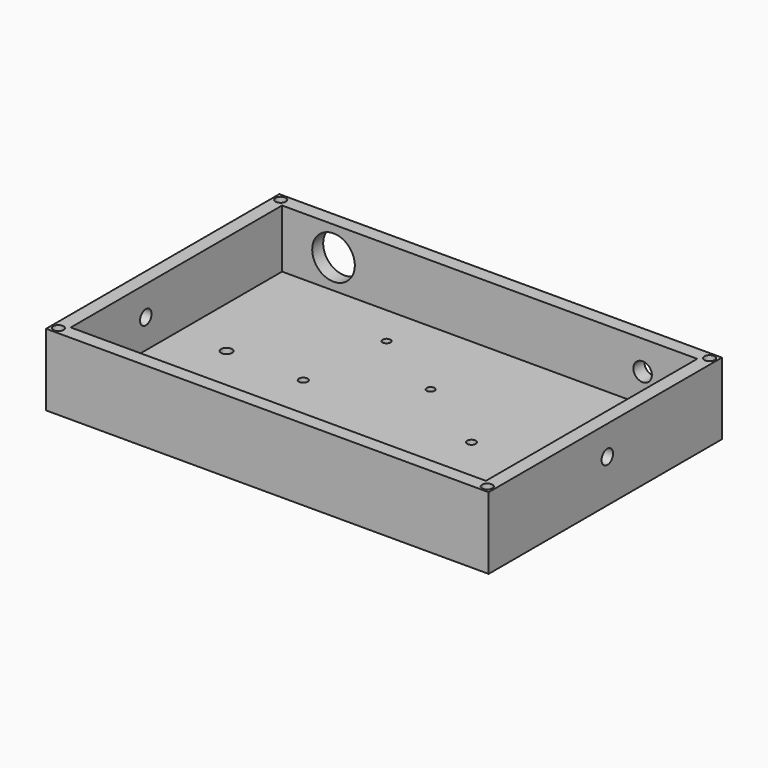
from build123d import *

# Parameters (mm, degrees)
F3_DEPTH  = 5.08
F6_DEPTH  = 5.08
F7_DEPTH  = 21.59
F8_R      = 7.8994
F9_DEPTH  = 25.4
F10_R     = 3.429
F11_DEPTH = 25.4
F12_R     = 2.667
F13_DEPTH = 25.4
F14_R     = 2.667
F15_DEPTH = 25.4
F1_R      = 1.4605
F16_DEPTH = 3.6068
F0_R      = 1.6129
F17_DEPTH = 3.6068
F18_R     = 1.905
F19_DEPTH = 12.7
F20_R     = 2
F21_DEPTH = 25.4


with BuildPart() as f3:
    # F2 (on Top) → F3 (new body)
    with BuildSketch(Plane.XY):
        Polygon((-43.589437, -12.7), (0, -12.7), (110.36633, -12.7), (110.36633, 85.2678), (0, 85.2678), (-43.589437, 85.2678), (-43.589437, 72.5678), (-43.589437, 0), align=None)
    extrude(amount=-F3_DEPTH)

    # F4 (on Top) → F6 (join)
    with BuildSketch(Plane.XY):
        Polygon((110.394933, 90.221972), (-5.796864, 90.221972), (-43.560833, 90.221972), (-48.640833, 90.221972), (-48.640833, 85.141972), (-48.640833, -12.825828), (-48.640833, -17.905828), (-43.560833, -17.905828), (-5.796864, -17.905828), (110.394933, -17.905828), (115.474933, -17.905828), (115.474933, -12.825828), (115.474933, 85.141972), (115.474933, 90.221972), align=None)
        Polygon((110.394933, -12.825828), (-5.796864, -12.825828), (-43.560833, -12.825828), (-43.560833, 85.141972), (-5.796864, 85.141972), (110.394933, 85.141972), align=None, mode=Mode.SUBTRACT)
    extrude(amount=-F6_DEPTH)

    # F5 (on face) → F7 (join)
    with BuildSketch(Plane.XY):
        Polygon((110.394933, 90.221972), (-5.796864, 90.221972), (-43.560833, 90.221972), (-48.640833, 90.221972), (-48.640833, 85.141972), (-48.640833, -12.825828), (-48.640833, -17.905828), (-43.560833, -17.905828), (-5.796864, -17.905828), (110.394933, -17.905828), (115.474933, -17.905828), (115.474933, 48.9839), (115.474933, 90.221972), align=None)
        Polygon((110.394933, -12.825828), (-5.796864, -12.825828), (-43.560833, -12.825828), (-43.560833, 85.141972), (-5.796864, 85.141972), (110.394933, 85.141972), align=None, mode=Mode.SUBTRACT)
    extrude(amount=F7_DEPTH)

    # F8 (on face) → F9 (cut)
    with BuildSketch(Plane(origin=(0, 90.221972, 0), x_dir=(-1, 0, 0), z_dir=(0, 1, 0))):
        with Locations((24.494825, 10.795)):
            Circle(F8_R)
    extrude(amount=-F9_DEPTH, mode=Mode.SUBTRACT)

    # F10 (on face) → F11 (cut)
    with BuildSketch(Plane(origin=(0, 90.221972, 0), x_dir=(-1, 0, 0), z_dir=(0, 1, 0))):
        with Locations((-90.13474, 10.795)):
            Circle(F10_R)
    extrude(amount=-F11_DEPTH, mode=Mode.SUBTRACT)

    # F12 (on face) → F13 (cut)
    with BuildSketch(Plane(origin=(-48.640833, 0, 0), x_dir=(0, -1, 0), z_dir=(-1, 0, 0))):
        with Locations((-21.966936, 10.795)):
            Circle(F12_R)
    extrude(amount=-F13_DEPTH, mode=Mode.SUBTRACT)

    # F14 (on face) → F15 (cut)
    with BuildSketch(Plane.YZ.offset(115.474933)):
        with Locations((37.101891, 10.795)):
            Circle(F14_R)
    extrude(amount=-F15_DEPTH, mode=Mode.SUBTRACT)

    # F1 (on Top) → F16 (cut)
    with BuildSketch(Plane.XY):
        with Locations((7.2644, 70.026379)):
            Circle(F1_R)
        with Locations((36.1696, 54.354579)):
            Circle(F1_R)
    extrude(amount=-F16_DEPTH, mode=Mode.SUBTRACT)

    # F0 (on Top) → F17 (cut)
    with BuildSketch(Plane.XY):
        with Locations((3.7592, 35.814)):
            Circle(F0_R)
        with Locations((3.7592, 5.969)):
            Circle(F0_R)
        with Locations((66.1162, 5.969)):
            Circle(F0_R)
        with Locations((66.1162, 35.814)):
            Circle(F0_R)
    extrude(amount=-F17_DEPTH, mode=Mode.SUBTRACT)

    # F18 (on face) → F19 (cut)
    with BuildSketch(Plane.XY.offset(21.59)):
        with Locations((-46.100833, -15.365828)):
            Circle(F18_R)
        with Locations((-46.100833, 87.681972)):
            Circle(F18_R)
        with Locations((112.934933, 87.681972)):
            Circle(F18_R)
        with Locations((112.934933, -15.365828)):
            Circle(F18_R)
    extrude(amount=-F19_DEPTH, mode=Mode.SUBTRACT)

    # F20 (on face) → F21 (cut)
    with BuildSketch(Plane.XY):
        with Locations((-25.017252, 36.220986)):
            Circle(F20_R)
        with Locations((91.822748, 36.220986)):
            Circle(F20_R)
    extrude(amount=-F21_DEPTH, mode=Mode.SUBTRACT)


solid = f3.part
